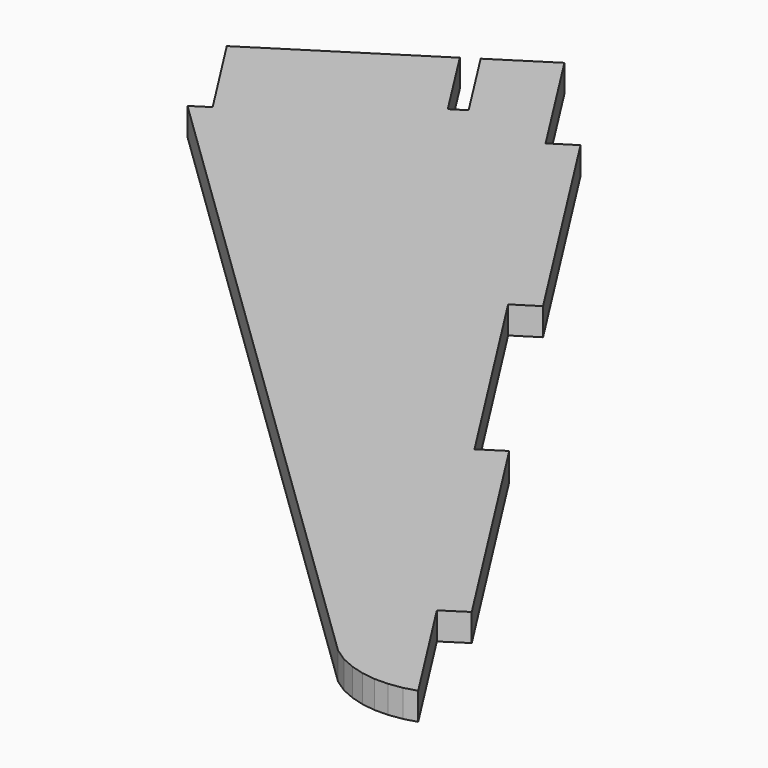
from build123d import *

# Parameters (mm, degrees)
PAD010_DEPTH = 5


with BuildPart() as part:
    # Sketch011 → Pad010 (new body)
    with BuildSketch(Plane.XY):
        with BuildLine():
            add(Edge.make_bspline(
                [(502.297598, -236.942104), (510.870098, -250.418215)],
                knots=[0, 0, 45.273944, 45.273944], degree=1))
            add(Edge.make_bspline(
                [(510.870098, -250.418215), (513.410098, -248.830715)],
                knots=[0, 0, 8.490583, 8.490583], degree=1))
            add(Edge.make_bspline(
                [(513.410098, -248.830715), (504.80232, -235.319326)],
                knots=[0, 0, 45.412003, 45.412003], degree=1))
            add(Edge.make_bspline(
                [(514.927042, -228.863493), (504.80232, -235.319326)],
                knots=[0, 0, 34.03792, 34.03792], degree=1))
            add(Edge.make_bspline(
                [(528.367875, -249.959603), (514.927042, -228.863493)],
                knots=[0, 0, 70.905924, 70.905924], degree=1))
            add(Edge.make_bspline(
                [(532.601208, -247.278492), (528.367875, -249.959603)],
                knots=[0, 0, 14.204225, 14.204225], degree=1))
            add(Edge.make_bspline(
                [(559.482874, -289.435436), (532.601208, -247.278492)],
                knots=[0, 0, 141.72752, 141.72752], degree=1))
            add(Edge.make_bspline(
                [(555.249541, -292.116547), (559.482874, -289.435436)],
                knots=[0, 0, 14.204225, 14.204225], degree=1))
            add(Edge.make_bspline(
                [(579.450096, -330.040157), (555.249541, -292.116547)],
                knots=[0, 0, 127.52337, 127.52337], degree=1))
            add(Edge.make_bspline(
                [(583.648152, -327.359046), (579.450096, -330.040157)],
                knots=[0, 0, 14.119844, 14.119844], degree=1))
            add(Edge.make_bspline(
                [(610.529818, -369.51599), (583.648152, -327.359046)],
                knots=[0, 0, 141.72752, 141.72752], degree=1))
            add(Edge.make_bspline(
                [(606.331762, -372.232379), (610.529818, -369.51599)],
                knots=[0, 0, 14.17392, 14.17392], degree=1))
            add(Edge.make_bspline(
                [(619.772595, -393.293211), (606.331762, -372.232379)],
                knots=[0, 0, 70.821607, 70.821607], degree=1))
            add(Edge.make_bspline(
                [(617.47954, -393.928211), (619.772595, -393.293211)],
                knots=[0, 0, 6.744627, 6.744627], degree=1))
            add(Edge.make_bspline(
                [(615.080651, -394.280989), (617.47954, -393.928211)],
                knots=[0, 0, 6.873136, 6.873136], degree=1))
            add(Edge.make_bspline(
                [(612.611207, -394.316267), (615.080651, -394.280989)],
                knots=[0, 0, 7.000714, 7.000714], degree=1))
            add(Edge.make_bspline(
                [(610.212318, -393.998767), (612.611207, -394.316267)],
                knots=[0, 0, 6.8593, 6.8593], degree=1))
            add(Edge.make_bspline(
                [(607.813429, -393.328489), (610.212318, -393.998767)],
                knots=[0, 0, 7.060453, 7.060453], degree=1))
            add(Edge.make_bspline(
                [(605.41454, -392.270156), (607.813429, -393.328489)],
                knots=[0, 0, 7.432362, 7.432362], degree=1))
            add(Edge.make_bspline(
                [(603.086207, -390.717934), (605.41454, -392.270156)],
                knots=[0, 0, 7.932213, 7.932213], degree=1))
            add(Edge.make_bspline(
                [(481.272043, -272.819603), (603.086207, -390.717934)],
                knots=[0, 0, 480.543161, 480.543161], degree=1))
            add(Edge.make_bspline(
                [(481.272043, -272.819603), (484.305932, -270.879325)],
                knots=[0, 0, 10.20833, 10.20833], degree=1))
            add(Edge.make_bspline(
                [(484.305932, -270.879325), (482.718432, -268.374603)],
                knots=[0, 0, 8.40595, 8.40595], degree=1))
            add(Edge.make_bspline(
                [(482.718432, -268.374603), (474.110654, -254.898492)],
                knots=[0, 0, 45.327696, 45.327696], degree=1))
            add(Edge.make_bspline(
                [(502.297598, -236.942104), (474.110654, -254.898492)],
                knots=[0, 0, 94.735527, 94.735527], degree=1))
        make_face()
    extrude(amount=PAD010_DEPTH)


solid = part.part
